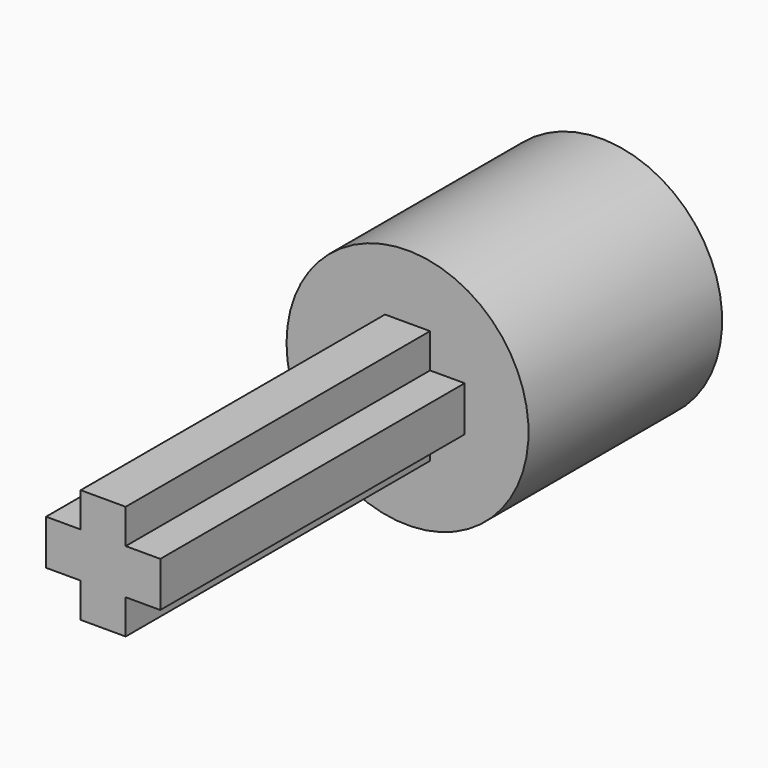
from build123d import *

# Parameters (mm, degrees)
F1_DEPTH = 15.72
F2_R     = 5
F3_DEPTH = 10
F5_DEPTH = 6.5


with BuildPart() as f1:
    # F0 (on Front) → F1 (new body)
    with BuildSketch(Plane.XZ):
        Polygon((0.93, 0.93), (0.93, 2.36), (-0.93, 2.36), (-0.93, 0.93), (-2.36, 0.93), (-2.36, -0.93), (-0.93, -0.93), (-0.93, -2.36), (0.93, -2.36), (0.93, -0.93), (2.36, -0.93), (2.36, 0.93), align=None)
    extrude(amount=F1_DEPTH)

    # F2 (on face) → F3 (join)
    with BuildSketch(Plane(origin=(0, 0, 0), x_dir=(-1, 0, 0), z_dir=(0, 1, 0))):
        Circle(F2_R)
    extrude(amount=F3_DEPTH)

    # F4 (on face) → F5 (cut)
    with BuildSketch(Plane(origin=(0, 10, 0), x_dir=(-1, 0, 0), z_dir=(0, 1, 0))):
        with BuildLine():
            ThreePointArc((2, -1.5), (2.5, 0), (2, 1.5))
            Line((2, 1.5), (-2, 1.5))
            ThreePointArc((-2, 1.5), (-2.5, 0), (-2, -1.5))
            Line((-2, -1.5), (2, -1.5))
        make_face()
    extrude(amount=-F5_DEPTH, mode=Mode.SUBTRACT)


solid = f1.part
